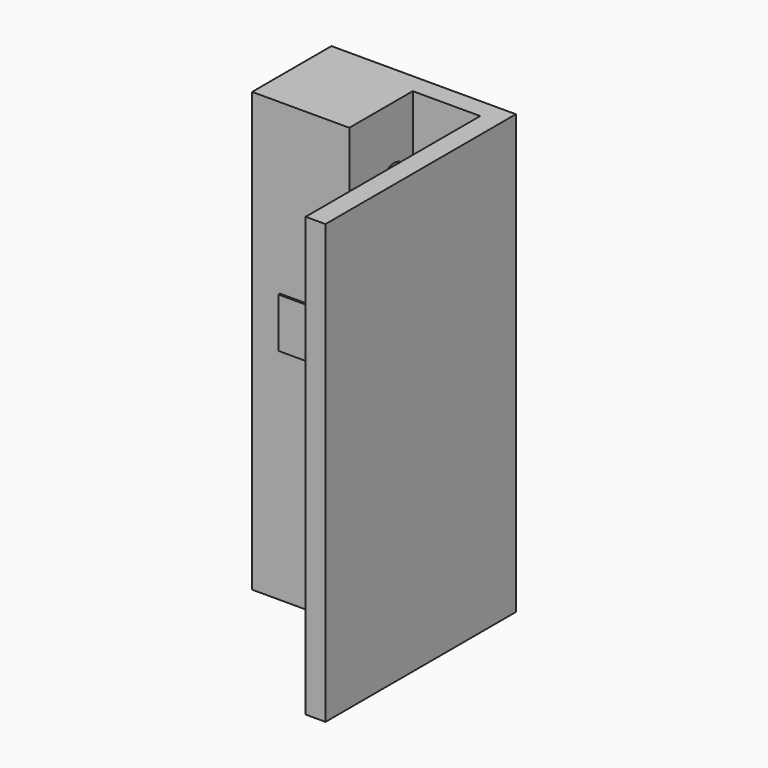
from build123d import *

# Parameters (mm, degrees)
F1_DEPTH = 2210
F2_W     = 340
F2_H     = 940
F3_DEPTH = 400
F4_R     = 77
F5_DEPTH = 25
F6_R     = 77
F7_DEPTH = 25
F8_W     = 200
F8_H     = 250
F9_DEPTH = 10


with BuildPart() as f1:
    # F0 (on Top) → F1 (new body)
    with BuildSketch(Plane.XY):
        Polygon((-830, 0), (0, 0), (0, -700), (100, -700), (100, 500), (-830, 500), align=None)
    extrude(amount=F1_DEPTH)

    # F2 (on face) → F3 (cut)
    with BuildSketch(Plane.XZ):
        with Locations((-170, 1740)):
            Rectangle(F2_W, F2_H)
    extrude(amount=-F3_DEPTH, mode=Mode.SUBTRACT)

    # F4 (on face) → F5 (cut)
    with BuildSketch(Plane.XZ.offset(-400)):
        with Locations((-183, 1532)):
            Circle(F4_R)
    extrude(amount=-F5_DEPTH, mode=Mode.SUBTRACT)

    # F6 (on face) → F7 (cut)
    with BuildSketch(Plane.YZ.offset(-340)):
        with Locations((282, 1862)):
            Circle(F6_R)
    extrude(amount=-F7_DEPTH, mode=Mode.SUBTRACT)

    # F8 (on face) → F9 (join)
    with BuildSketch(Plane.XZ):
        with Locations((-590, 1235)):
            Rectangle(F8_W, F8_H)
    extrude(amount=F9_DEPTH)


solid = f1.part
